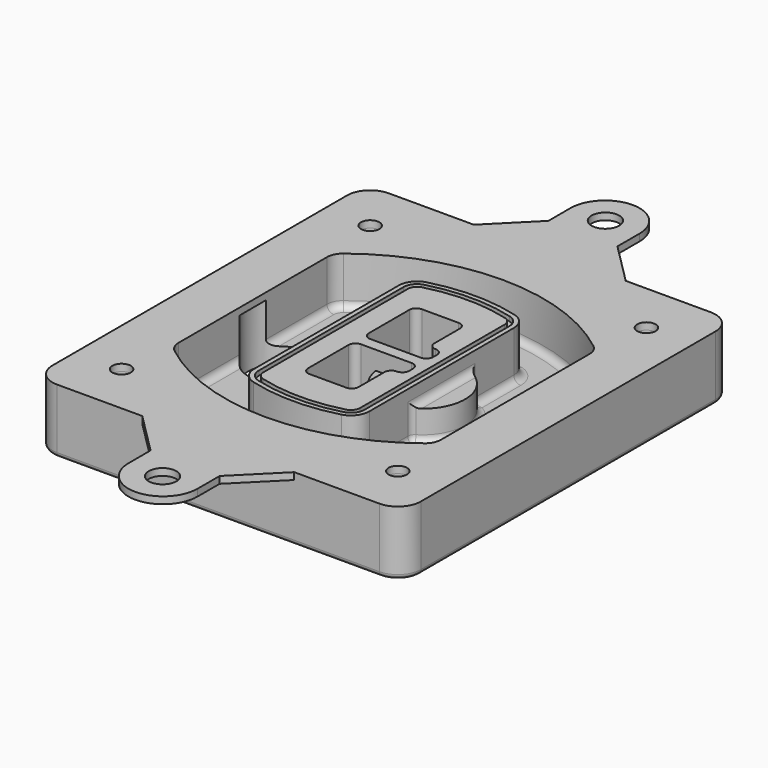
from build123d import *

# Parameters (mm, degrees)
F0_R      = 4
F1_DEPTH  = 25
F2_DEPTH  = 3
F3_DEPTH  = 18
F5_DEPTH  = 21
F6_DEPTH  = 2
F8_DEPTH  = 20
F9_DEPTH  = 16
F10_DEPTH = 25
F7_R      = 6
F7_R_2    = 4
F11_DEPTH = 6
F13_DEPTH = 9
F14_R     = 3
F15_R     = 2
F16_R     = 4
F16_R_2   = 6
F17_DEPTH = 3


with BuildPart() as f1:
    # F0 (on Top) → F1 (new body)
    with BuildSketch(Plane.XY):
        with BuildLine():
            ThreePointArc((-80, -80), (-77.0710678119, -87.0710678119), (-70, -90))
            Line((-70, -90), (70, -90))
            ThreePointArc((70, -90), (77.0710678119, -87.0710678119), (80, -80))
            Line((80, -80), (80, 80))
            ThreePointArc((80, 80), (77.0710678119, 87.0710678119), (70, 90))
            Line((70, 90), (-70, 90))
            ThreePointArc((-70, 90), (-77.0710678119, 87.0710678119), (-80, 80))
            Line((-80, 80), (-80, -80))
        make_face()
        with Locations((-60, -67.5)):
            Circle(F0_R, mode=Mode.SUBTRACT)
        with Locations((60, -67.5)):
            Circle(F0_R, mode=Mode.SUBTRACT)
        with Locations((-60, 67.5)):
            Circle(F0_R, mode=Mode.SUBTRACT)
        with BuildLine():
            ThreePointArc((-64, 40.2934422872), (-62.5820384798, 46.4328484224), (-58.6153846154, 51.3286200352))
            ThreePointArc((-58.6153846154, 51.3286200352), (0, 71.5), (58.6153846154, 51.3286200352))
            ThreePointArc((58.6153846154, 51.3286200352), (62.5820384798, 46.4328484224), (64, 40.2934422872))
            Line((64, 40.2934422872), (64, -40.2934422872))
            ThreePointArc((64, -40.2934422872), (62.5820384798, -46.4328484224), (58.6153846154, -51.3286200352))
            ThreePointArc((58.6153846154, -51.3286200352), (0, -71.5), (-58.6153846154, -51.3286200352))
            ThreePointArc((-58.6153846154, -51.3286200352), (-62.5820384798, -46.4328484224), (-64, -40.2934422872))
            Line((-64, -40.2934422872), (-64, 40.2934422872))
        make_face(mode=Mode.SUBTRACT)
        with Locations((60, 67.5)):
            Circle(F0_R, mode=Mode.SUBTRACT)
        with BuildLine():
            ThreePointArc((58.6153846154, 51.3286200352), (0, 71.5), (-58.6153846154, 51.3286200352))
            ThreePointArc((-58.6153846154, 51.3286200352), (-62.5820384798, 46.4328484224), (-64, 40.2934422872))
            Line((-64, 40.2934422872), (-64, -40.2934422872))
            ThreePointArc((-64, -40.2934422872), (-62.5820384798, -46.4328484224), (-58.6153846154, -51.3286200352))
            ThreePointArc((-58.6153846154, -51.3286200352), (0, -71.5), (58.6153846154, -51.3286200352))
            ThreePointArc((58.6153846154, -51.3286200352), (62.5820384798, -46.4328484224), (64, -40.2934422872))
            Line((64, -40.2934422872), (64, 40.2934422872))
            ThreePointArc((64, 40.2934422872), (62.5820384798, 46.4328484224), (58.6153846154, 51.3286200352))
        make_face()
        with BuildLine():
            Line((-60, -40.2934422872), (-60, 40.2934422872))
            ThreePointArc((-60, 40.2934422872), (-58.9871703427, 44.6787323838), (-56.1538461538, 48.1757121072))
            ThreePointArc((-56.1538461538, 48.1757121072), (0, 67.5), (56.1538461538, 48.1757121072))
            ThreePointArc((56.1538461538, 48.1757121072), (58.9871703427, 44.6787323838), (60, 40.2934422872))
            Line((60, 40.2934422872), (60, -40.2934422872))
            ThreePointArc((60, -40.2934422872), (58.9871703427, -44.6787323838), (56.1538461538, -48.1757121072))
            ThreePointArc((56.1538461538, -48.1757121072), (0, -67.5), (-56.1538461538, -48.1757121072))
            ThreePointArc((-56.1538461538, -48.1757121072), (-58.9871703427, -44.6787323838), (-60, -40.2934422872))
        make_face(mode=Mode.SUBTRACT)
        with BuildLine():
            ThreePointArc((-56.1538461538, 48.1757121072), (-58.9871703427, 44.6787323838), (-60, 40.2934422872))
            Line((-60, 40.2934422872), (-60, -40.2934422872))
            ThreePointArc((-60, -40.2934422872), (-58.9871703427, -44.6787323838), (-56.1538461538, -48.1757121072))
            ThreePointArc((-56.1538461538, -48.1757121072), (0, -67.5), (56.1538461538, -48.1757121072))
            ThreePointArc((56.1538461538, -48.1757121072), (58.9871703427, -44.6787323838), (60, -40.2934422872))
            Line((60, -40.2934422872), (60, 40.2934422872))
            ThreePointArc((60, 40.2934422872), (58.9871703427, 44.6787323838), (56.1538461538, 48.1757121072))
            ThreePointArc((56.1538461538, 48.1757121072), (0, 67.5), (-56.1538461538, 48.1757121072))
        make_face()
        with BuildLine():
            ThreePointArc((54.3076923077, 45.8110311612), (56.2910192399, 43.3631453548), (57, 40.2934422872))
            Line((57, 40.2934422872), (57, -40.2934422872))
            ThreePointArc((57, -40.2934422872), (56.2910192399, -43.3631453548), (54.3076923077, -45.8110311612))
            ThreePointArc((54.3076923077, -45.8110311612), (0, -64.5), (-54.3076923077, -45.8110311612))
            ThreePointArc((-54.3076923077, -45.8110311612), (-56.2910192399, -43.3631453548), (-57, -40.2934422872))
            Line((-57, -40.2934422872), (-57, 40.2934422872))
            ThreePointArc((-57, 40.2934422872), (-56.2910192399, 43.3631453548), (-54.3076923077, 45.8110311612))
            ThreePointArc((-54.3076923077, 45.8110311612), (0, 64.5), (54.3076923077, 45.8110311612))
        make_face(mode=Mode.SUBTRACT)
        with BuildLine():
            Line((57, -40.2934422872), (57, 40.2934422872))
            ThreePointArc((57, 40.2934422872), (56.2910192399, 43.3631453548), (54.3076923077, 45.8110311612))
            ThreePointArc((54.3076923077, 45.8110311612), (0, 64.5), (-54.3076923077, 45.8110311612))
            ThreePointArc((-54.3076923077, 45.8110311612), (-56.2910192399, 43.3631453548), (-57, 40.2934422872))
            Line((-57, 40.2934422872), (-57, -40.2934422872))
            ThreePointArc((-57, -40.2934422872), (-56.2910192399, -43.3631453548), (-54.3076923077, -45.8110311612))
            ThreePointArc((-54.3076923077, -45.8110311612), (0, -64.5), (54.3076923077, -45.8110311612))
            ThreePointArc((54.3076923077, -45.8110311612), (56.2910192399, -43.3631453548), (57, -40.2934422872))
        make_face()
    extrude(amount=-F1_DEPTH)

    # F0 (on Top) → F2 (join)
    with BuildSketch(Plane.XY):
        with BuildLine():
            ThreePointArc((-56.1538461538, 48.1757121072), (-58.9871703427, 44.6787323838), (-60, 40.2934422872))
            Line((-60, 40.2934422872), (-60, -40.2934422872))
            ThreePointArc((-60, -40.2934422872), (-58.9871703427, -44.6787323838), (-56.1538461538, -48.1757121072))
            ThreePointArc((-56.1538461538, -48.1757121072), (0, -67.5), (56.1538461538, -48.1757121072))
            ThreePointArc((56.1538461538, -48.1757121072), (58.9871703427, -44.6787323838), (60, -40.2934422872))
            Line((60, -40.2934422872), (60, 40.2934422872))
            ThreePointArc((60, 40.2934422872), (58.9871703427, 44.6787323838), (56.1538461538, 48.1757121072))
            ThreePointArc((56.1538461538, 48.1757121072), (0, 67.5), (-56.1538461538, 48.1757121072))
        make_face()
        with BuildLine():
            ThreePointArc((54.3076923077, 45.8110311612), (56.2910192399, 43.3631453548), (57, 40.2934422872))
            Line((57, 40.2934422872), (57, -40.2934422872))
            ThreePointArc((57, -40.2934422872), (56.2910192399, -43.3631453548), (54.3076923077, -45.8110311612))
            ThreePointArc((54.3076923077, -45.8110311612), (0, -64.5), (-54.3076923077, -45.8110311612))
            ThreePointArc((-54.3076923077, -45.8110311612), (-56.2910192399, -43.3631453548), (-57, -40.2934422872))
            Line((-57, -40.2934422872), (-57, 40.2934422872))
            ThreePointArc((-57, 40.2934422872), (-56.2910192399, 43.3631453548), (-54.3076923077, 45.8110311612))
            ThreePointArc((-54.3076923077, 45.8110311612), (0, 64.5), (54.3076923077, 45.8110311612))
        make_face(mode=Mode.SUBTRACT)
    extrude(amount=F2_DEPTH)

    # F0 (on Top) → F3 (cut)
    with BuildSketch(Plane.XY):
        with BuildLine():
            Line((57, -40.2934422872), (57, 40.2934422872))
            ThreePointArc((57, 40.2934422872), (56.2910192399, 43.3631453548), (54.3076923077, 45.8110311612))
            ThreePointArc((54.3076923077, 45.8110311612), (0, 64.5), (-54.3076923077, 45.8110311612))
            ThreePointArc((-54.3076923077, 45.8110311612), (-56.2910192399, 43.3631453548), (-57, 40.2934422872))
            Line((-57, 40.2934422872), (-57, -40.2934422872))
            ThreePointArc((-57, -40.2934422872), (-56.2910192399, -43.3631453548), (-54.3076923077, -45.8110311612))
            ThreePointArc((-54.3076923077, -45.8110311612), (0, -64.5), (54.3076923077, -45.8110311612))
            ThreePointArc((54.3076923077, -45.8110311612), (56.2910192399, -43.3631453548), (57, -40.2934422872))
        make_face()
    extrude(amount=-F3_DEPTH, mode=Mode.SUBTRACT)

    # F4 (on face) → F5 (join, through all)
    with BuildSketch(Plane.XY.offset(3)):
        with BuildLine():
            ThreePointArc((-25, -39.2465276821), (-23.3511545998, -44.1109737193), (-19.0842911877, -46.9702398883))
            ThreePointArc((-19.0842911877, -46.9702398883), (0, -49.5), (19.0842911877, -46.9702398883))
            ThreePointArc((19.0842911877, -46.9702398883), (23.3511545998, -44.1109737193), (25, -39.2465276821))
            Line((25, -39.2465276821), (25, 39.2465276821))
            ThreePointArc((25, 39.2465276821), (23.3511545998, 44.1109737193), (19.0842911877, 46.9702398883))
            ThreePointArc((19.0842911877, 46.9702398883), (0, 49.5), (-19.0842911877, 46.9702398883))
            ThreePointArc((-19.0842911877, 46.9702398883), (-23.3511545998, 44.1109737193), (-25, 39.2465276821))
            Line((-25, 39.2465276821), (-25, -39.2465276821))
        make_face()
        with BuildLine():
            ThreePointArc((18.5632183908, 45.0393118368), (21.7633659499, 42.89486221), (23, 39.2465276821))
            Line((23, 39.2465276821), (23, -39.2465276821))
            ThreePointArc((23, -39.2465276821), (21.7633659499, -42.89486221), (18.5632183908, -45.0393118368))
            ThreePointArc((18.5632183908, -45.0393118368), (0, -47.5), (-18.5632183908, -45.0393118368))
            ThreePointArc((-18.5632183908, -45.0393118368), (-21.7633659499, -42.89486221), (-23, -39.2465276821))
            Line((-23, -39.2465276821), (-23, 39.2465276821))
            ThreePointArc((-23, 39.2465276821), (-21.7633659499, 42.89486221), (-18.5632183908, 45.0393118368))
            ThreePointArc((-18.5632183908, 45.0393118368), (0, 47.5), (18.5632183908, 45.0393118368))
        make_face(mode=Mode.SUBTRACT)
        with BuildLine():
            Line((23, -39.2465276821), (23, 39.2465276821))
            ThreePointArc((23, 39.2465276821), (21.7633659499, 42.89486221), (18.5632183908, 45.0393118368))
            ThreePointArc((18.5632183908, 45.0393118368), (0, 47.5), (-18.5632183908, 45.0393118368))
            ThreePointArc((-18.5632183908, 45.0393118368), (-21.7633659499, 42.89486221), (-23, 39.2465276821))
            Line((-23, 39.2465276821), (-23, -39.2465276821))
            ThreePointArc((-23, -39.2465276821), (-21.7633659499, -42.89486221), (-18.5632183908, -45.0393118368))
            ThreePointArc((-18.5632183908, -45.0393118368), (0, -47.5), (18.5632183908, -45.0393118368))
            ThreePointArc((18.5632183908, -45.0393118368), (21.7633659499, -42.89486221), (23, -39.2465276821))
        make_face()
        with BuildLine():
            ThreePointArc((18.0421455939, 43.1083837852), (20.1755772999, 41.6787507007), (21, 39.2465276821))
            Line((21, 39.2465276821), (21, -39.2465276821))
            ThreePointArc((21, -39.2465276821), (20.1755772999, -41.6787507007), (18.0421455939, -43.1083837852))
            ThreePointArc((18.0421455939, -43.1083837852), (0, -45.5), (-18.0421455939, -43.1083837852))
            ThreePointArc((-18.0421455939, -43.1083837852), (-20.1755772999, -41.6787507007), (-21, -39.2465276821))
            Line((-21, -39.2465276821), (-21, 39.2465276821))
            ThreePointArc((-21, 39.2465276821), (-20.1755772999, 41.6787507007), (-18.0421455939, 43.1083837852))
            ThreePointArc((-18.0421455939, 43.1083837852), (0, 45.5), (18.0421455939, 43.1083837852))
        make_face(mode=Mode.SUBTRACT)
        with BuildLine():
            Line((21, -39.2465276821), (21, 39.2465276821))
            ThreePointArc((21, 39.2465276821), (20.1755772999, 41.6787507007), (18.0421455939, 43.1083837852))
            ThreePointArc((18.0421455939, 43.1083837852), (0, 45.5), (-18.0421455939, 43.1083837852))
            ThreePointArc((-18.0421455939, 43.1083837852), (-20.1755772999, 41.6787507007), (-21, 39.2465276821))
            Line((-21, 39.2465276821), (-21, -39.2465276821))
            ThreePointArc((-21, -39.2465276821), (-20.1755772999, -41.6787507007), (-18.0421455939, -43.1083837852))
            ThreePointArc((-18.0421455939, -43.1083837852), (0, -45.5), (18.0421455939, -43.1083837852))
            ThreePointArc((18.0421455939, -43.1083837852), (20.1755772999, -41.6787507007), (21, -39.2465276821))
        make_face()
        with BuildLine():
            Line((-8, -2.5), (14, -2.5))
            ThreePointArc((14, -2.5), (16.1213203436, -3.3786796564), (17, -5.5))
            Line((17, -5.5), (17, -7.5))
            ThreePointArc((17, -7.5), (16.1213203436, -9.6213203436), (14, -10.5))
            ThreePointArc((14, -10.5), (11.8786796564, -11.3786796564), (11, -13.5))
            Line((11, -13.5), (11, -27.5))
            ThreePointArc((11, -27.5), (10.1213203436, -29.6213203436), (8, -30.5))
            Line((8, -30.5), (-8, -30.5))
            ThreePointArc((-8, -30.5), (-10.1213203436, -29.6213203436), (-11, -27.5))
            Line((-11, -27.5), (-11, -5.5))
            ThreePointArc((-11, -5.5), (-10.1213203436, -3.3786796564), (-8, -2.5))
        make_face(mode=Mode.SUBTRACT)
        with BuildLine():
            ThreePointArc((-8, 2.5), (-10.1213203436, 3.3786796564), (-11, 5.5))
            Line((-11, 5.5), (-11, 27.5))
            ThreePointArc((-11, 27.5), (-10.1213203436, 29.6213203436), (-8, 30.5))
            Line((-8, 30.5), (8, 30.5))
            ThreePointArc((8, 30.5), (10.1213203436, 29.6213203436), (11, 27.5))
            Line((11, 27.5), (11, 13.5))
            ThreePointArc((11, 13.5), (11.8786796564, 11.3786796564), (14, 10.5))
            ThreePointArc((14, 10.5), (16.1213203436, 9.6213203436), (17, 7.5))
            Line((17, 7.5), (17, 5.5))
            ThreePointArc((17, 5.5), (16.1213203436, 3.3786796564), (14, 2.5))
            Line((14, 2.5), (-8, 2.5))
        make_face(mode=Mode.SUBTRACT)
    extrude(amount=-F5_DEPTH)

    # F4 (on face) → F6 (cut)
    with BuildSketch(Plane.XY.offset(3)):
        with BuildLine():
            Line((23, -39.2465276821), (23, 39.2465276821))
            ThreePointArc((23, 39.2465276821), (21.7633659499, 42.89486221), (18.5632183908, 45.0393118368))
            ThreePointArc((18.5632183908, 45.0393118368), (0, 47.5), (-18.5632183908, 45.0393118368))
            ThreePointArc((-18.5632183908, 45.0393118368), (-21.7633659499, 42.89486221), (-23, 39.2465276821))
            Line((-23, 39.2465276821), (-23, -39.2465276821))
            ThreePointArc((-23, -39.2465276821), (-21.7633659499, -42.89486221), (-18.5632183908, -45.0393118368))
            ThreePointArc((-18.5632183908, -45.0393118368), (0, -47.5), (18.5632183908, -45.0393118368))
            ThreePointArc((18.5632183908, -45.0393118368), (21.7633659499, -42.89486221), (23, -39.2465276821))
        make_face()
        with BuildLine():
            ThreePointArc((18.0421455939, 43.1083837852), (20.1755772999, 41.6787507007), (21, 39.2465276821))
            Line((21, 39.2465276821), (21, -39.2465276821))
            ThreePointArc((21, -39.2465276821), (20.1755772999, -41.6787507007), (18.0421455939, -43.1083837852))
            ThreePointArc((18.0421455939, -43.1083837852), (0, -45.5), (-18.0421455939, -43.1083837852))
            ThreePointArc((-18.0421455939, -43.1083837852), (-20.1755772999, -41.6787507007), (-21, -39.2465276821))
            Line((-21, -39.2465276821), (-21, 39.2465276821))
            ThreePointArc((-21, 39.2465276821), (-20.1755772999, 41.6787507007), (-18.0421455939, 43.1083837852))
            ThreePointArc((-18.0421455939, 43.1083837852), (0, 45.5), (18.0421455939, 43.1083837852))
        make_face(mode=Mode.SUBTRACT)
    extrude(amount=-F6_DEPTH, mode=Mode.SUBTRACT)

    # F7 (on face) → F8 (join)
    with BuildSketch(Plane(origin=(0, 0, -25), x_dir=(1, 0, 0), z_dir=(0, 0, -1))):
        with BuildLine():
            ThreePointArc((3.28842436, 0), (16.7567035675, 13.4682792075), (30.224982775, 0))
            Line((30.224982775, 0), (35.224982775, 0))
            ThreePointArc((35.224982775, 0), (16.7567035675, 18.4682792075), (-1.71157564, 0))
            Line((-1.71157564, 0), (3.28842436, 0))
        make_face()
        with BuildLine():
            Line((3.28842436, 0), (30.224982775, 0))
            ThreePointArc((30.224982775, 0), (16.7567035675, 13.4682792075), (3.28842436, 0))
        make_face()
        with BuildLine():
            ThreePointArc((3.28842436, 0), (16.7567035675, -13.4682792075), (30.224982775, 0))
            Line((30.224982775, 0), (3.28842436, 0))
        make_face()
        with BuildLine():
            Line((35.224982775, 0), (30.224982775, 0))
            ThreePointArc((30.224982775, 0), (16.7567035675, -13.4682792075), (3.28842436, 0))
            Line((3.28842436, 0), (-1.71157564, 0))
            ThreePointArc((-1.71157564, 0), (16.7567035675, -18.4682792075), (35.224982775, 0))
        make_face()
    extrude(amount=-F8_DEPTH)

    # F7 (on face) → F9 (cut)
    with BuildSketch(Plane(origin=(0, 0, -25), x_dir=(1, 0, 0), z_dir=(0, 0, -1))):
        with BuildLine():
            Line((3.28842436, 0), (30.224982775, 0))
            ThreePointArc((30.224982775, 0), (16.7567035675, 13.4682792075), (3.28842436, 0))
        make_face()
        with BuildLine():
            ThreePointArc((3.28842436, 0), (16.7567035675, -13.4682792075), (30.224982775, 0))
            Line((30.224982775, 0), (3.28842436, 0))
        make_face()
    extrude(amount=-F9_DEPTH, mode=Mode.SUBTRACT)

    # F7 (on face) → F10 (cut)
    with BuildSketch(Plane(origin=(0, 0, -25), x_dir=(1, 0, 0), z_dir=(0, 0, -1))):
        with BuildLine():
            Line((-59.0318229325, 0), (-32.0952645175, 0))
            ThreePointArc((-32.0952645175, 0), (-45.563543725, 13.4682792075), (-59.0318229325, 0))
        make_face()
        with BuildLine():
            ThreePointArc((-59.0318229325, 0), (-45.563543725, -13.4682792075), (-32.0952645175, 0))
            Line((-32.0952645175, 0), (-59.0318229325, 0))
        make_face()
    extrude(amount=-F10_DEPTH, mode=Mode.SUBTRACT)

    # F7 (on face) → F11 (cut)
    with BuildSketch(Plane(origin=(0, 0, -25), x_dir=(1, 0, 0), z_dir=(0, 0, -1))):
        with Locations((60, -67.5)):
            Circle(F7_R)
        with Locations((60, -67.5)):
            Circle(F7_R_2, mode=Mode.SUBTRACT)
        with Locations((60, -67.5)):
            Circle(F7_R)
        with Locations((60, -67.5)):
            Circle(F7_R_2, mode=Mode.SUBTRACT)
        with Locations((-60, -67.5)):
            Circle(F7_R)
        with Locations((-60, -67.5)):
            Circle(F7_R_2, mode=Mode.SUBTRACT)
        with Locations((-60, -67.5)):
            Circle(F7_R)
        with Locations((-60, -67.5)):
            Circle(F7_R_2, mode=Mode.SUBTRACT)
        with Locations((-60, 67.5)):
            Circle(F7_R)
        with Locations((-60, 67.5)):
            Circle(F7_R_2, mode=Mode.SUBTRACT)
        with Locations((-60, 67.5)):
            Circle(F7_R)
        with Locations((-60, 67.5)):
            Circle(F7_R_2, mode=Mode.SUBTRACT)
        with Locations((60, 67.5)):
            Circle(F7_R)
        with Locations((60, 67.5)):
            Circle(F7_R_2, mode=Mode.SUBTRACT)
        with Locations((60, 67.5)):
            Circle(F7_R)
        with Locations((60, 67.5)):
            Circle(F7_R_2, mode=Mode.SUBTRACT)
    extrude(amount=-F11_DEPTH, mode=Mode.SUBTRACT)

    # F12 (on face) → F13 (cut, through all)
    with BuildSketch(Plane(origin=(0, 0, -9), x_dir=(1, 0, 0), z_dir=(0, 0, -1))):
        with BuildLine():
            Line((11, 13.5), (11, 17.5481537753))
            ThreePointArc((11, 17.5481537753), (2.5696536419, 11.8239143813), (-1.5415842455, 2.5))
            Line((-1.5415842455, 2.5), (3.5224848595, 2.5))
            ThreePointArc((3.5224848595, 2.5), (6.1857188154, 8.3455872281), (11.2536447004, 12.2927168648))
            ThreePointArc((11.2536447004, 12.2927168648), (11.0640958889, 12.8831798879), (11, 13.5))
        make_face()
        with BuildLine():
            ThreePointArc((11.2536447004, -12.2927168648), (6.1857188154, -8.3455872281), (3.5224848595, -2.5))
            Line((3.5224848595, -2.5), (-1.5415842455, -2.5))
            ThreePointArc((-1.5415842455, -2.5), (2.5696536419, -11.8239143813), (11, -17.5481537753))
            Line((11, -17.5481537753), (11, -13.5))
            ThreePointArc((11, -13.5), (11.0640958889, -12.8831798879), (11.2536447004, -12.2927168648))
        make_face()
        with BuildLine():
            ThreePointArc((11.2536447004, 12.2927168648), (6.1857188154, 8.3455872281), (3.5224848595, 2.5))
            Line((3.5224848595, 2.5), (14, 2.5))
            ThreePointArc((14, 2.5), (16.1213203436, 3.3786796564), (17, 5.5))
            Line((17, 5.5), (17, 7.5))
            ThreePointArc((17, 7.5), (16.1213203436, 9.6213203436), (14, 10.5))
            ThreePointArc((14, 10.5), (12.3601599782, 10.9878446101), (11.2536447004, 12.2927168648))
        make_face()
        with BuildLine():
            Line((14, -2.5), (3.5224848595, -2.5))
            ThreePointArc((3.5224848595, -2.5), (6.1857188154, -8.3455872281), (11.2536447004, -12.2927168648))
            ThreePointArc((11.2536447004, -12.2927168648), (12.3601599782, -10.9878446101), (14, -10.5))
            ThreePointArc((14, -10.5), (16.1213203436, -9.6213203436), (17, -7.5))
            Line((17, -7.5), (17, -5.5))
            ThreePointArc((17, -5.5), (16.1213203436, -3.3786796564), (14, -2.5))
        make_face()
    extrude(amount=F13_DEPTH, mode=Mode.SUBTRACT)

    # F14
    f14_edges = [f1.edges().sort_by_distance(p)[0] for p in [
        (-57, -23.703476, -18),
        (-57, 23.703476, -18),
        (25, 0, -5),
        (25, 16.526506, -11.5),
        (25, -16.526506, -11.5),
        (25, -27.886517, -18),
        (35.224983, 0, -18),
    ]]
    fillet(f14_edges, radius=F14_R)

    # F15
    f15_edges = [f1.edges().sort_by_distance(p)[0] for p in [
        (0, -90, -25),
    ]]
    fillet(f15_edges, radius=F15_R)

    # F16 (on face) → F17 (join, through all)
    with BuildSketch(Plane.XY):
        with BuildLine():
            Line((-33, 90), (-70, 90))
            ThreePointArc((-70, 90), (-77.0710678119, 87.0710678119), (-80, 80))
            Line((-80, 80), (-80, -80))
            ThreePointArc((-80, -80), (-77.0710678119, -87.0710678119), (-70, -90))
            Line((-70, -90), (-33, -90))
            Line((-33, -90), (33, -90))
            Line((33, -90), (70, -90))
            ThreePointArc((70, -90), (77.0710678119, -87.0710678119), (80, -80))
            Line((80, -80), (80, 80))
            ThreePointArc((80, 80), (77.0710678119, 87.0710678119), (70, 90))
            Line((70, 90), (33, 90))
            Line((33, 90), (-33, 90))
        make_face()
        with Locations((-60, -67.5)):
            Circle(F16_R, mode=Mode.SUBTRACT)
        with Locations((60, -67.5)):
            Circle(F16_R, mode=Mode.SUBTRACT)
        with Locations((-60, 67.5)):
            Circle(F16_R, mode=Mode.SUBTRACT)
        with BuildLine():
            Line((-60, -40.2934422872), (-60, 40.2934422872))
            ThreePointArc((-60, 40.2934422872), (-58.9871703427, 44.6787323838), (-56.1538461538, 48.1757121072))
            ThreePointArc((-56.1538461538, 48.1757121072), (0, 67.5), (56.1538461538, 48.1757121072))
            ThreePointArc((56.1538461538, 48.1757121072), (58.9871703427, 44.6787323838), (60, 40.2934422872))
            Line((60, 40.2934422872), (60, -40.2934422872))
            ThreePointArc((60, -40.2934422872), (58.9871703427, -44.6787323838), (56.1538461538, -48.1757121072))
            ThreePointArc((56.1538461538, -48.1757121072), (0, -67.5), (-56.1538461538, -48.1757121072))
            ThreePointArc((-56.1538461538, -48.1757121072), (-58.9871703427, -44.6787323838), (-60, -40.2934422872))
        make_face(mode=Mode.SUBTRACT)
        with Locations((60, 67.5)):
            Circle(F16_R, mode=Mode.SUBTRACT)
        with BuildLine():
            Line((-15, 108), (-33, 90))
            Line((-33, 90), (33, 90))
            Line((33, 90), (15, 108))
            Line((15, 108), (15, 120))
            ThreePointArc((15, 120), (0, 135), (-15, 120))
            Line((-15, 120), (-15, 108))
        make_face()
        with Locations((0, 120.2304695429)):
            Circle(F16_R_2, mode=Mode.SUBTRACT)
        with BuildLine():
            Line((33, -90), (-33, -90))
            Line((-33, -90), (-15, -108))
            Line((-15, -108), (-15, -120))
            ThreePointArc((-15, -120), (0, -135), (15, -120))
            Line((15, -120), (15, -108))
            Line((15, -108), (33, -90))
        make_face()
        with Locations((0, -120.2304695429)):
            Circle(F16_R_2, mode=Mode.SUBTRACT)
    extrude(amount=F17_DEPTH)


solid = f1.part
